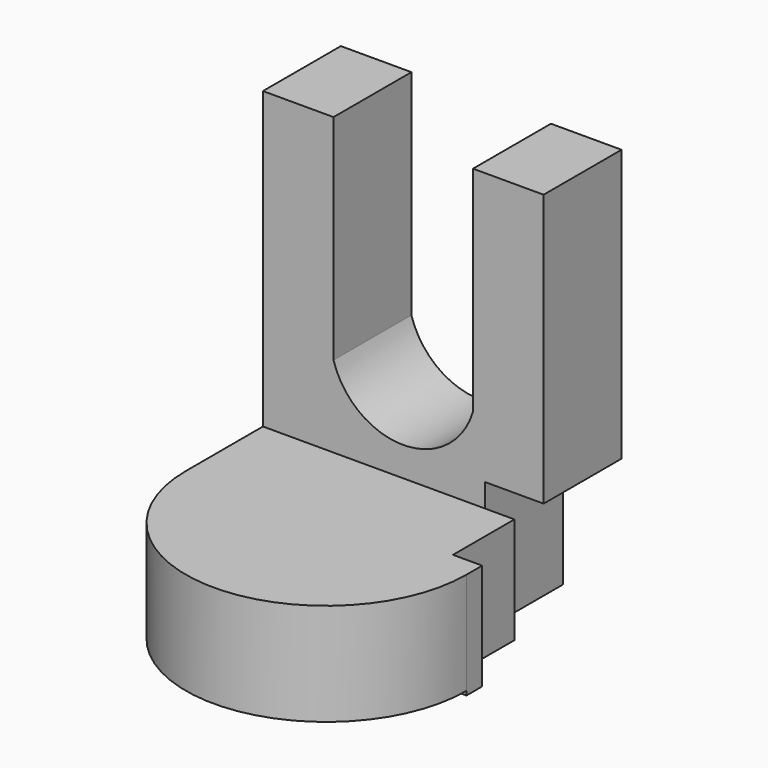
from build123d import *

# Parameters (mm, degrees)
F1_DEPTH = 25.4
F0_W     = 73.2126906514
F0_H     = 27.755683288
F2_DEPTH = 50.546
F4_DEPTH = 26.67
F5_W     = 25.4
F5_H     = 33.8419238105
F6_DEPTH = 15.24
F7_W     = 7.62
F7_H     = 20.0272031784
F8_DEPTH = 27.756683288


with BuildPart() as f1:
    # F0 (on Front) → F1 (new body)
    with BuildSketch(Plane.XZ):
        with BuildLine():
            Line((-54.8033118248, 55.7945854962), (-73.2126906514, 55.7945854962))
            Line((-73.2126906514, 55.7945854962), (-73.2126906514, -21.2415922433))
            Line((-73.2126906514, -21.2415922433), (0, -21.2415922433))
            Line((0, -21.2415922433), (0, 55.7945854962))
            Line((0, 55.7945854962), (-18.4093788266, 55.7945854962))
            Line((-18.4093788266, 55.7945854962), (-18.4093788266, 0))
            ThreePointArc((-18.4093788266, 0), (-36.6063453257, -13.5848598971), (-54.8033118248, 0))
            Line((-54.8033118248, 0), (-54.8033118248, 55.7945854962))
        make_face()
    extrude(amount=F1_DEPTH)

    # F0 (on Front) → F2 (join)
    with BuildSketch(Plane.XZ):
        with Locations((-36.6063453257, -35.1194338873)):
            Rectangle(F0_W, F0_H)
    extrude(amount=F2_DEPTH)

    # F3 (on face) → F4 (join)
    with BuildSketch(Plane.XY.offset(-21.2415922433)):
        with BuildLine():
            Line((0, -50.546), (-73.2126906514, -50.546))
            ThreePointArc((-73.2126906514, -50.546), (-36.6063453257, -87.1523453257), (0, -50.546))
        make_face()
    extrude(amount=-F4_DEPTH)

    # F5 (on face) → F6 (cut)
    with BuildSketch(Plane.YZ):
        with Locations((-12.7, -32.076313626)):
            Rectangle(F5_W, F5_H)
    extrude(amount=-F6_DEPTH, mode=Mode.SUBTRACT)

    # F7 (on face) → F8 (cut, through all)
    with BuildSketch(Plane.XY.offset(-21.2415922433)):
        with Locations((-3.81, -35.4136015892)):
            Rectangle(F7_W, F7_H)
    extrude(amount=-F8_DEPTH, mode=Mode.SUBTRACT)


solid = f1.part
